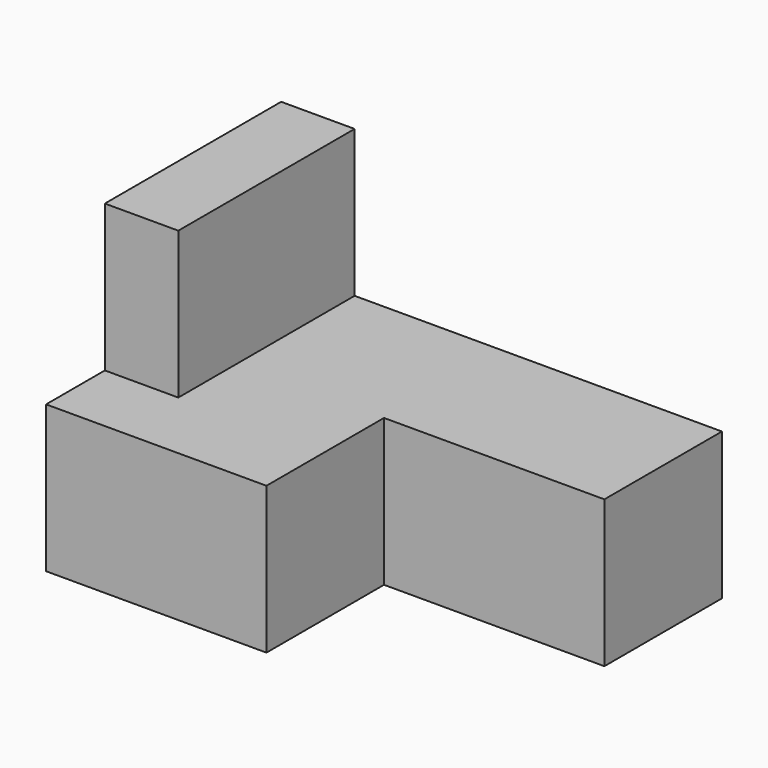
from build123d import *

# Parameters (mm, degrees)
F0_W     = 6.35
F0_H     = 19.05
F1_DEPTH = 12.7
F2_W     = 19.05
F2_H     = 25.4
F3_DEPTH = 6.35


with BuildPart() as f1:
    # F0 (on Top) → F1 (new body)
    with BuildSketch(Plane.XY):
        with Locations((3.175, 15.875)):
            Rectangle(F0_W, F0_H)
        Polygon((0, 6.35), (0, 0), (19.05, 0), (19.05, 12.7), (38.1, 12.7), (38.1, 25.4), (6.35, 25.4), (6.35, 6.35), align=None)
    extrude(amount=F1_DEPTH)

    # F2 (on Right) → F3 (join)
    with BuildSketch(Plane.YZ):
        with Locations((15.875, 12.7)):
            Rectangle(F2_W, F2_H)
    extrude(amount=F3_DEPTH)


solid = f1.part
